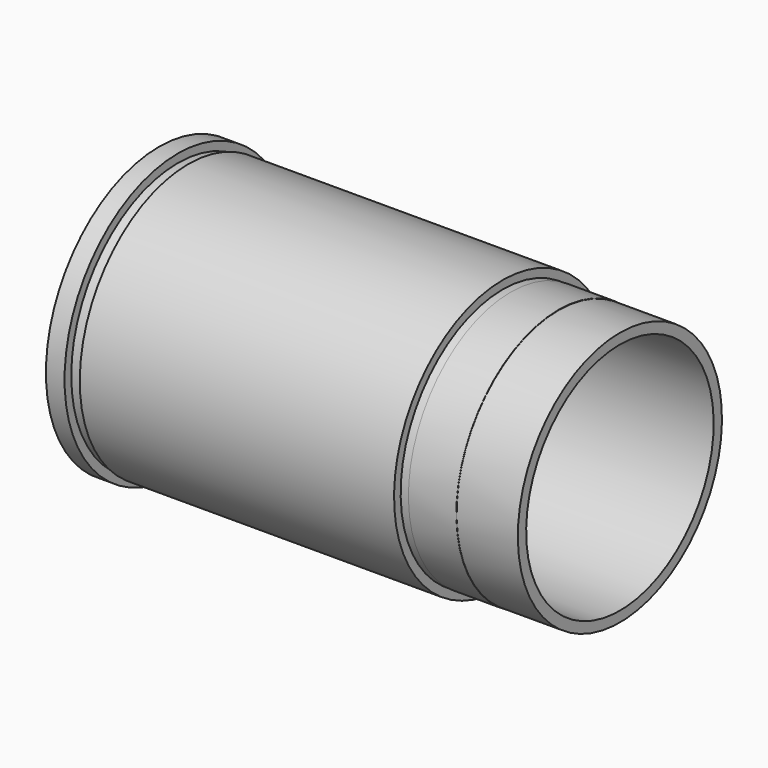
from build123d import *


with BuildPart() as f1:
    # F0 (on Front) → F1 (revolve)
    with BuildSketch(Plane.XZ):
        Polygon((-142.502957, 53.15), (-142.502957, 44), (30.497043, 44), (30.497043, 47.9), (7.497043, 47.9), (7.497043, 48), (-10.502957, 48), (-10.502957, 47.9), (-13.502957, 47.9), (-13.502957, 48), (-13.502957, 51), (-131.502957, 51), (-131.502957, 50), (-135.502957, 50), (-135.502957, 53.15), align=None)
    revolve(axis=Axis((-38.690465, 0, 0), (1, 0, 0)))


solid = f1.part
